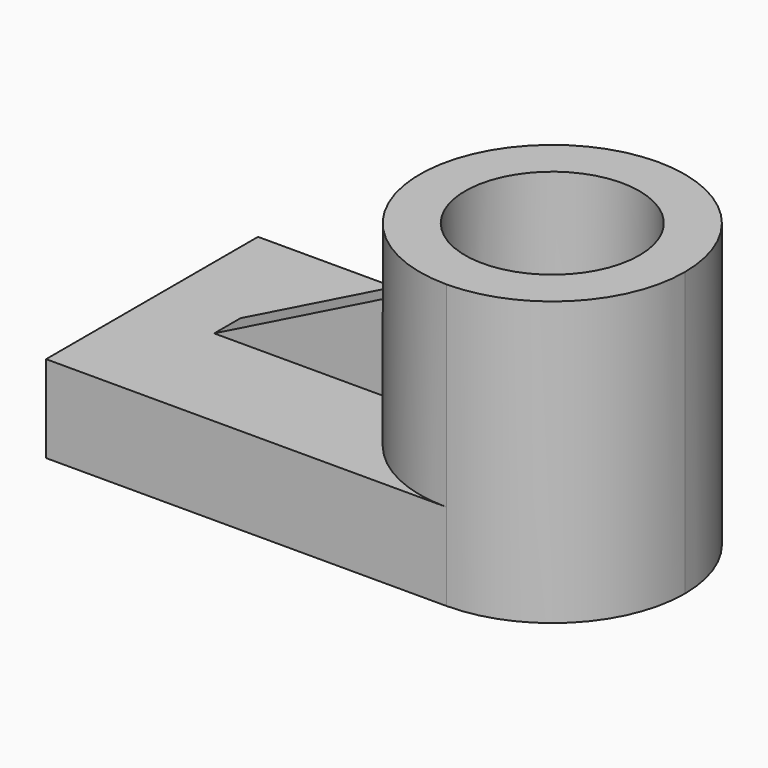
from build123d import *

# Parameters (mm, degrees)
F0_R     = 25.404221
F1_DEPTH = 82.55
F2_DEPTH = 25.4
F3_W     = 72.80118
F3_H     = 9.580332
F4_DEPTH = 53.848
F6_DEPTH = 25.4


with BuildPart() as f1:
    # F0 (on Top) → F1 (new body)
    with BuildSketch(Plane.XY):
        with BuildLine():
            ThreePointArc((96.964516, 0), (85.654314, 27.305241), (58.349073, 38.615443))
            ThreePointArc((58.349073, 38.615443), (19.73363, 0), (58.349073, -38.615443))
            ThreePointArc((58.349073, -38.615443), (85.654314, -27.305241), (96.964516, 0))
        make_face()
        with Locations((58.349073, 0)):
            Circle(F0_R, mode=Mode.SUBTRACT)
    extrude(amount=F1_DEPTH)

    # F0 (on Top) → F2 (join)
    with BuildSketch(Plane.XY):
        with BuildLine():
            Line((58.349073, 38.615443), (-58.349073, 38.615443))
            Line((-58.349073, 38.615443), (-58.349073, -38.615443))
            Line((-58.349073, -38.615443), (58.349073, -38.615443))
            ThreePointArc((58.349073, -38.615443), (19.73363, 0), (58.349073, 38.615443))
        make_face()
    extrude(amount=F2_DEPTH)

    # F3 (on Top) → F4 (join)
    with BuildSketch(Plane.XY):
        Rectangle(F3_W, F3_H)
    extrude(amount=F4_DEPTH)

    # F5 (on face) → F6 (cut)
    with BuildSketch(Plane.XZ.offset(4.790166)):
        Polygon((-36.40059, 25.4), (20.031887, 53.848), (-36.40059, 53.848), align=None)
    extrude(amount=-F6_DEPTH, mode=Mode.SUBTRACT)


solid = f1.part
